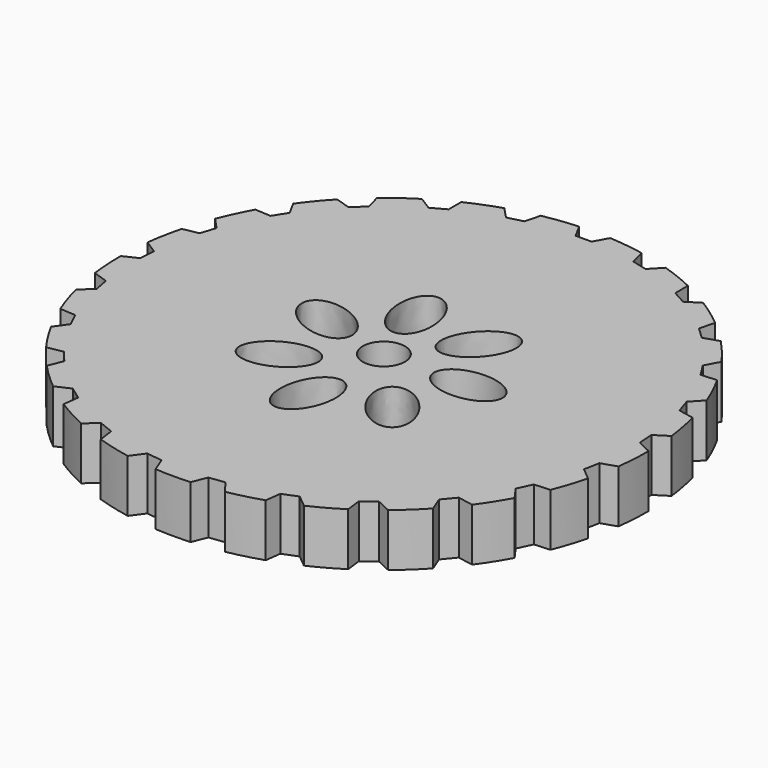
from build123d import *

# Parameters (mm, degrees)
F1_DEPTH = 5
F3_DEPTH = 25
F4_R     = 2
F5_DEPTH = 25


with BuildPart() as f1:
    # F0 (on Top) → F1 (new body)
    with BuildSketch(Plane.XY):
        with BuildLine():
            Line((-18.161776, -14.823267), (-18.709091, -16.21985))
            ThreePointArc((-18.709091, -16.21985), (-17.535207, -17.398097), (-16.285577, -18.495682))
            Line((-16.285577, -18.495682), (-14.926115, -17.861755))
            Line((-14.926115, -17.861755), (-13.71259, -18.743432))
            Line((-13.71259, -18.743432), (-13.895394, -20.232252))
            ThreePointArc((-13.895394, -20.232252), (-12.465371, -21.081548), (-10.982042, -21.83388))
            Line((-10.982042, -21.83388), (-9.822942, -20.881784))
            Line((-9.822942, -20.881784), (-8.428277, -21.433971))
            Line((-8.428277, -21.433971), (-8.235084, -22.921478))
            ThreePointArc((-8.235084, -22.921478), (-6.638776, -23.38846), (-5.014951, -23.748267))
            Line((-5.014951, -23.748267), (-4.129043, -22.537827))
            Line((-4.129043, -22.537827), (-2.640871, -22.725827))
            Line((-2.640871, -22.725827), (-2.083819, -24.118556))
            ThreePointArc((-2.083819, -24.118556), (-0.421529, -24.173881), (1.240761, -24.118556))
            Line((1.240761, -24.118556), (1.797813, -22.725827))
            Line((1.797813, -22.725827), (3.285985, -22.537827))
            Line((3.285985, -22.537827), (4.171893, -23.748267))
            ThreePointArc((4.171893, -23.748267), (5.795718, -23.38846), (7.392025, -22.921478))
            Line((7.392025, -22.921478), (7.585219, -21.433971))
            Line((7.585219, -21.433971), (8.979883, -20.881784))
            Line((8.979883, -20.881784), (10.138984, -21.83388))
            ThreePointArc((10.138984, -21.83388), (11.622313, -21.081548), (13.052335, -20.232252))
            Line((13.052335, -20.232252), (12.869531, -18.743432))
            Line((12.869531, -18.743432), (14.083057, -17.861755))
            Line((14.083057, -17.861755), (15.442518, -18.495682))
            ThreePointArc((15.442518, -18.495682), (16.692148, -17.398097), (17.866033, -16.21985))
            Line((17.866033, -16.21985), (17.318718, -14.823267))
            Line((17.318718, -14.823267), (18.274854, -13.667497))
            Line((18.274854, -13.667497), (19.749257, -13.943424))
            ThreePointArc((19.749257, -13.943424), (20.686669, -12.569551), (21.530656, -11.136388))
            Line((21.530656, -11.136388), (20.653219, -9.919792))
            Line((20.653219, -9.919792), (21.291888, -8.562552))
            Line((21.291888, -8.562552), (22.78859, -8.463141))
            ThreePointArc((22.78859, -8.463141), (23.354884, -6.899306), (23.815942, -5.301278))
            Line((23.815942, -5.301278), (22.663517, -4.341113))
            Line((22.663517, -4.341113), (22.944589, -2.867682))
            Line((22.944589, -2.867682), (24.369547, -2.39918))
            ThreePointArc((24.369547, -2.39918), (24.529139, -0.743644), (24.578299, 0.91884))
            Line((24.578299, 0.91884), (23.223296, 1.562243))
            Line((23.223296, 1.562243), (23.12911, 3.059283))
            Line((23.12911, 3.059283), (24.392789, 3.867439))
            ThreePointArc((24.392789, 3.867439), (24.135652, 5.510652), (23.769825, 7.133131))
            Line((23.769825, 7.133131), (22.297384, 7.419345))
            Line((22.297384, 7.419345), (21.833858, 8.84593))
            Line((21.833858, 8.84593), (22.856856, 9.94296))
            ThreePointArc((22.856856, 9.94296), (22.199147, 11.470601), (21.441319, 12.95113))
            Line((21.441319, 12.95113), (19.943959, 12.86217))
            Line((19.943959, 12.86217), (19.140219, 14.128662))
            Line((19.140219, 14.128662), (19.858256, 15.445637))
            ThreePointArc((19.858256, 15.445637), (18.841302, 16.761719), (17.739089, 18.00727))
            Line((17.739089, 18.00727), (16.310895, 17.548727))
            Line((16.310895, 17.548727), (15.217442, 18.575547))
            Line((15.217442, 18.575547), (15.585404, 20.029715))
            ThreePointArc((15.585404, 20.029715), (14.273102, 21.051544), (12.895762, 21.983854))
            Line((12.895762, 21.983854), (11.626472, 21.18454))
            Line((11.626472, 21.18454), (10.312012, 21.90717))
            Line((10.312012, 21.90717), (10.306776, 23.407161))
            ThreePointArc((10.306776, 23.407161), (8.781585, 24.070531), (7.21566, 24.631021))
            Line((7.21566, 24.631021), (6.185029, 23.541159))
            Line((6.185029, 23.541159), (4.732154, 23.914194))
            Line((4.732154, 23.914194), (4.35405, 25.365757))
            ThreePointArc((4.35405, 25.365757), (2.711802, 25.628987), (1.055685, 25.782438))
            Line((1.055685, 25.782438), (0.328471, 24.470508))
            Line((0.328471, 24.470508), (-1.171529, 24.470508))
            Line((-1.171529, 24.470508), (-1.898744, 25.782438))
            ThreePointArc((-1.898744, 25.782438), (-3.55486, 25.628987), (-5.197108, 25.365757))
            Line((-5.197108, 25.365757), (-5.575212, 23.914194))
            Line((-5.575212, 23.914194), (-7.028087, 23.541159))
            Line((-7.028087, 23.541159), (-8.058718, 24.631021))
            ThreePointArc((-8.058718, 24.631021), (-9.624643, 24.070531), (-11.149834, 23.407161))
            Line((-11.149834, 23.407161), (-11.15507, 21.90717))
            Line((-11.15507, 21.90717), (-12.46953, 21.18454))
            Line((-12.46953, 21.18454), (-13.73882, 21.983854))
            ThreePointArc((-13.73882, 21.983854), (-15.11616, 21.051544), (-16.428462, 20.029715))
            Line((-16.428462, 20.029715), (-16.060501, 18.575547))
            Line((-16.060501, 18.575547), (-17.153954, 17.548727))
            Line((-17.153954, 17.548727), (-18.582148, 18.00727))
            ThreePointArc((-18.582148, 18.00727), (-19.68436, 16.761719), (-20.701315, 15.445637))
            Line((-20.701315, 15.445637), (-19.983277, 14.128662))
            Line((-19.983277, 14.128662), (-20.787017, 12.86217))
            Line((-20.787017, 12.86217), (-22.284377, 12.95113))
            ThreePointArc((-22.284377, 12.95113), (-23.042205, 11.470601), (-23.699914, 9.94296))
            Line((-23.699914, 9.94296), (-22.676917, 8.84593))
            Line((-22.676917, 8.84593), (-23.140442, 7.419345))
            Line((-23.140442, 7.419345), (-24.612883, 7.133131))
            ThreePointArc((-24.612883, 7.133131), (-24.97871, 5.510652), (-25.235847, 3.867439))
            Line((-25.235847, 3.867439), (-23.972168, 3.059283))
            Line((-23.972168, 3.059283), (-24.066354, 1.562243))
            Line((-24.066354, 1.562243), (-25.421357, 0.91884))
            ThreePointArc((-25.421357, 0.91884), (-25.372197, -0.743644), (-25.212605, -2.39918))
            Line((-25.212605, -2.39918), (-23.787647, -2.867682))
            Line((-23.787647, -2.867682), (-23.506575, -4.341113))
            Line((-23.506575, -4.341113), (-24.659, -5.301278))
            ThreePointArc((-24.659, -5.301278), (-24.197942, -6.899306), (-23.631649, -8.463141))
            Line((-23.631649, -8.463141), (-22.134946, -8.562552))
            Line((-22.134946, -8.562552), (-21.496278, -9.919792))
            Line((-21.496278, -9.919792), (-22.373714, -11.136388))
            ThreePointArc((-22.373714, -11.136388), (-21.529727, -12.569551), (-20.592315, -13.943424))
            Line((-20.592315, -13.943424), (-19.117912, -13.667497))
            Line((-19.117912, -13.667497), (-18.161776, -14.823267))
        make_face()
    extrude(amount=F1_DEPTH)

    # F2 (on face) → F3 (cut)
    with BuildSketch(Plane.XY.offset(5)):
        with BuildLine():
            add(Edge.make_bspline(
                [(10.828471, 0.826119), (10.828471, 2.826119), (7.578471, 2.826119), (4.328471, 2.826119), (4.328471, 0.826119)],
                knots=[0, 0, 0, 1.570796, 1.570796, 3.141593, 3.141593, 3.141593], degree=2, weights=[1, 0.707107, 1, 0.707107, 1]))
            add(Edge.make_bspline(
                [(4.328471, 0.826119), (4.328471, -1.173881), (7.578471, -1.173881), (10.828471, -1.173881), (10.828471, 0.826119)],
                knots=[3.141593, 3.141593, 3.141593, 4.712389, 4.712389, 6.283185, 6.283185, 6.283185], degree=2, weights=[1, 0.707107, 1, 0.707107, 1]))
        make_face()
        with BuildLine():
            add(Edge.make_bspline(
                [(6.105555, 8.981116), (3.397212, 11.140948), (1.711871, 6.249604), (0.02653, 1.358259), (4.420214, 4.089772), (8.813899, 6.821284), (6.105555, 8.981116)],
                knots=[0, 0, 0, 2.094395, 2.094395, 4.18879, 4.18879, 6.283185, 6.283185, 6.283185], degree=2, weights=[1, 0.5, 1, 0.5, 1, 0.5, 1]))
        make_face()
        with BuildLine():
            add(Edge.make_bspline(
                [(-3.214968, 10.37315), (-6.592217, 9.602315), (-3.818803, 5.234959), (-1.045389, 0.867603), (-0.441554, 6.005794), (0.162281, 11.143985), (-3.214968, 10.37315)],
                knots=[0, 0, 0, 2.094395, 2.094395, 4.18879, 4.18879, 6.283185, 6.283185, 6.283185], degree=2, weights=[1, 0.5, 1, 0.5, 1, 0.5, 1]))
        make_face()
        with BuildLine():
            add(Edge.make_bspline(
                [(-10.114555, 3.95399), (-11.617572, 0.832942), (-6.47384, 0.278283), (-1.330108, -0.276377), (-4.970823, 3.39933), (-8.611537, 7.075038), (-10.114555, 3.95399)],
                knots=[0, 0, 0, 2.094395, 2.094395, 4.18879, 4.18879, 6.283185, 6.283185, 6.283185], degree=2, weights=[1, 0.5, 1, 0.5, 1, 0.5, 1]))
        make_face()
        with BuildLine():
            add(Edge.make_bspline(
                [(-9.397675, -5.442605), (-7.894658, -8.563653), (-4.253944, -4.887946), (-0.613229, -1.212239), (-5.756961, -1.766898), (-10.900693, -2.321557), (-9.397675, -5.442605)],
                knots=[0, 0, 0, 2.094395, 2.094395, 4.18879, 4.18879, 6.283185, 6.283185, 6.283185], degree=2, weights=[1, 0.5, 1, 0.5, 1, 0.5, 1]))
        make_face()
        with BuildLine():
            add(Edge.make_bspline(
                [(-1.604155, -10.740807), (1.773094, -11.511642), (1.169259, -6.373451), (0.565424, -1.23526), (-2.20799, -5.602616), (-4.981404, -9.969972), (-1.604155, -10.740807)],
                knots=[0, 0, 0, 2.094395, 2.094395, 4.18879, 4.18879, 6.283185, 6.283185, 6.283185], degree=2, weights=[1, 0.5, 1, 0.5, 1, 0.5, 1]))
        make_face()
        with BuildLine():
            add(Edge.make_bspline(
                [(7.397327, -7.950963), (10.105671, -5.791131), (5.711986, -3.059618), (1.318302, -0.328106), (3.003642, -5.21945), (4.688983, -10.110795), (7.397327, -7.950963)],
                knots=[0, 0, 0, 2.094395, 2.094395, 4.18879, 4.18879, 6.283185, 6.283185, 6.283185], degree=2, weights=[1, 0.5, 1, 0.5, 1, 0.5, 1]))
        make_face()
    extrude(amount=-F3_DEPTH, mode=Mode.SUBTRACT)

    # F4 (on face) → F5 (cut)
    with BuildSketch(Plane.XY.offset(5)):
        with Locations((-0.421529, 0.826119)):
            Circle(F4_R)
    extrude(amount=-F5_DEPTH, mode=Mode.SUBTRACT)


solid = f1.part
